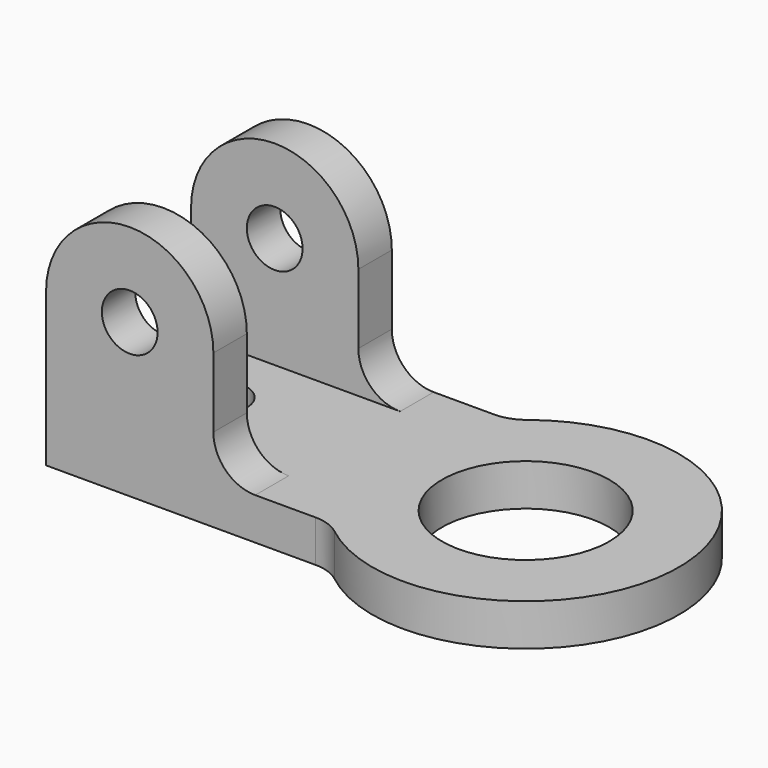
from build123d import *

# Parameters (mm, degrees)
F1_DEPTH  = 9.525
F2_R      = 19.05
F3_DEPTH  = 9.525
F4_W      = 38.1
F4_H      = 9.525
F5_DEPTH  = 25.4
F7_DEPTH  = 9.525
F8_R      = 6.35
F9_DEPTH  = 9.525
F10_R     = 19.05
F11_DEPTH = 9.525
F12_R     = 6.35
F13_DEPTH = 9.525
F14_R     = 6.35
F15_DEPTH = 25.4
F16_DEPTH = 9.525
F17_DEPTH = 9.525


with BuildPart() as f1:
    # F0 (on Top) → F1 (new body)
    with BuildSketch(Plane.XY):
        with BuildLine():
            Line((0, 50.8), (0, 0))
            Line((0, 0), (61.403693, 0))
            ThreePointArc((61.403693, 0), (64.521482, -0.524721), (67.295759, -2.041071))
            ThreePointArc((67.295759, -2.041071), (123.825, 25.4), (67.295759, 52.841071))
            ThreePointArc((67.295759, 52.841071), (64.521482, 51.324721), (61.403693, 50.8))
            Line((61.403693, 50.8), (0, 50.8))
        make_face()
    extrude(amount=F1_DEPTH)

    # F2 (on face) → F3 (cut)
    with BuildSketch(Plane.XY.offset(9.525)):
        with Locations((88.9, 25.4)):
            Circle(F2_R)
    extrude(amount=-F3_DEPTH, mode=Mode.SUBTRACT)

    # F4 (on face) → F5 (join)
    with BuildSketch(Plane.XY.offset(9.525)):
        with Locations((19.05, 4.7625)):
            Rectangle(F4_W, F4_H)
        with Locations((19.05, 46.0375)):
            Rectangle(F4_W, F4_H)
    extrude(amount=F5_DEPTH)

    # F6 (on face) → F7 (join)
    with BuildSketch(Plane(origin=(0, 50.8, 0), x_dir=(-1, 0, 0), z_dir=(0, 1, 0))):
        with BuildLine():
            ThreePointArc((-38.1, 34.925), (-19.05, 15.875), (0, 34.925))
            ThreePointArc((0, 34.925), (-19.05, 53.975), (-38.1, 34.925))
        make_face()
    extrude(amount=-F7_DEPTH)

    # F8 (on face) → F9 (cut)
    with BuildSketch(Plane(origin=(0, 50.8, 0), x_dir=(-1, 0, 0), z_dir=(0, 1, 0))):
        with Locations((-19.05, 34.925)):
            Circle(F8_R)
    extrude(amount=-F9_DEPTH, mode=Mode.SUBTRACT)

    # F10 (on face) → F11 (join)
    with BuildSketch(Plane.XZ):
        with Locations((19.05, 34.925)):
            Circle(F10_R)
    extrude(amount=-F11_DEPTH)

    # F12 (on face) → F13 (cut)
    with BuildSketch(Plane.XZ):
        with Locations((19.05, 34.925)):
            Circle(F12_R)
    extrude(amount=-F13_DEPTH, mode=Mode.SUBTRACT)

    # F14 (on face) → F15 (cut)
    with BuildSketch(Plane.XY.offset(9.525)):
        with Locations((19.05, 25.4)):
            Circle(F14_R)
    extrude(amount=-F15_DEPTH, mode=Mode.SUBTRACT)

    # F6 (on face) → F16 (join)
    with BuildSketch(Plane(origin=(0, 50.8, 0), x_dir=(-1, 0, 0), z_dir=(0, 1, 0))):
        with BuildLine():
            Line((-38.1, 9.525), (-38.1, 19.05))
            ThreePointArc((-38.1, 19.05), (-40.889808, 12.314808), (-47.625, 9.525))
            Line((-47.625, 9.525), (-38.1, 9.525))
        make_face()
    extrude(amount=-F16_DEPTH)

    # F10 (on face) → F17 (join)
    with BuildSketch(Plane.XZ):
        with BuildLine():
            ThreePointArc((47.625, 9.525), (40.889808, 12.314808), (38.1, 19.05))
            Line((38.1, 19.05), (38.1, 9.525))
            Line((38.1, 9.525), (47.625, 9.525))
        make_face()
    extrude(amount=-F17_DEPTH)


solid = f1.part
